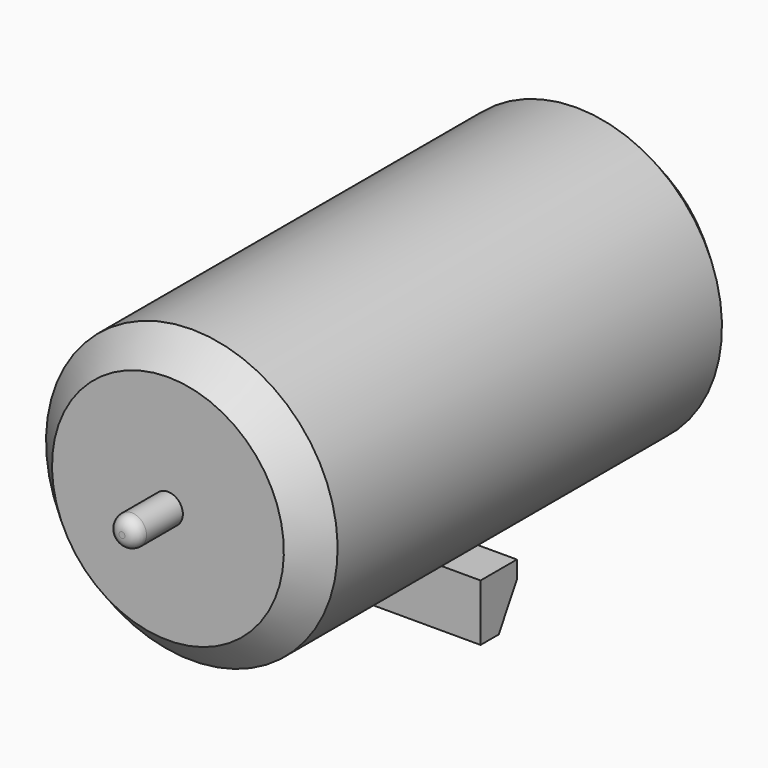
from build123d import *

# Parameters (mm, degrees)
F2_SIZE       = 0.635
F3_R          = 0.254
F5_DEPTH      = 2.54
F5_DEPTH_BACK = 2.54


with BuildPart() as f1:
    # F0 (on Right) → F1 (revolve)
    with BuildSketch(Plane.YZ):
        Polygon((0, 0.3175), (0, 0), (2.54, 0), (2.54, 1.5494), (12.7, 1.5494), (12.7, 3.0988), (1.2192, 3.0988), (1.2192, 0.3175), align=None)
    revolve(axis=Axis((0, 1.27, 0), (0, -1, 0)))

    # F2
    f2_edges = [f1.edges().sort_by_distance(p)[0] for p in [
        (0, 1.2192, -3.0988),
        (0, 12.7, -1.5494),
        (0, 12.7, -3.0988),
    ]]
    chamfer(f2_edges, length=F2_SIZE)

    # F3
    f3_edges = [f1.edges().sort_by_distance(p)[0] for p in [
        (0, 0, -0.3175),
    ]]
    fillet(f3_edges, radius=F3_R)

    # F4 (on Right) → F5 (join, two sides)
    with BuildSketch(Plane.YZ) as f5_sk:
        Polygon((6.35, -2.603163), (6.35, -3.81), (6.8326, -3.81), (7.3152, -2.974112), (7.3152, -2.603163), align=None)
    extrude(amount=F5_DEPTH)
    extrude(f5_sk.sketch, amount=-F5_DEPTH_BACK)


solid = f1.part
